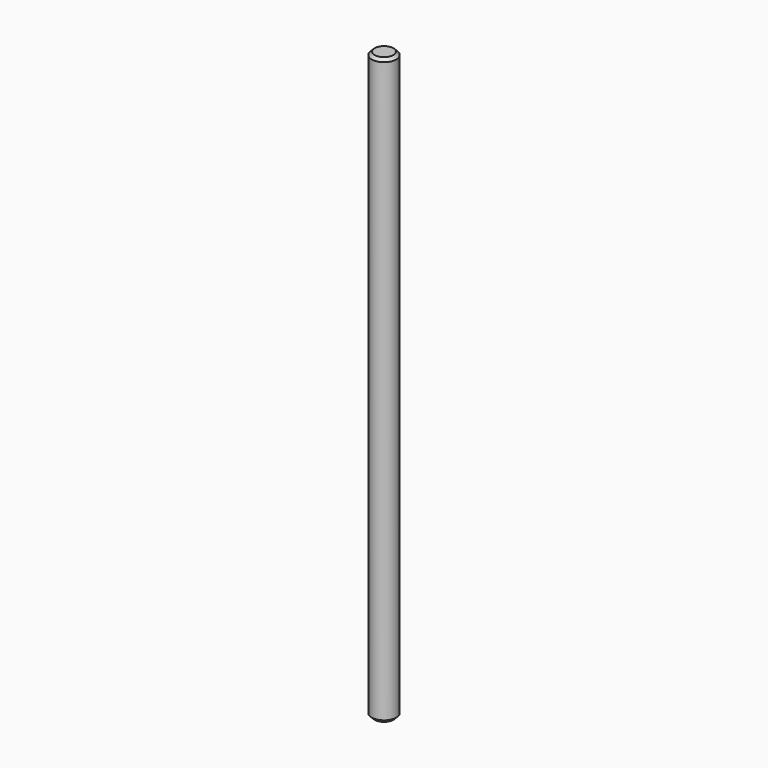
from build123d import *

# Parameters (mm, degrees)
SKETCH_R     = 2.1
PAD_DEPTH    = 100
CHAMFER_SIZE = 0.5


with BuildPart() as part:
    # Sketch → Pad (new body)
    with BuildSketch(Plane.XY):
        Circle(SKETCH_R)
    extrude(amount=PAD_DEPTH)

    # Chamfer
    chamfer_edges = [part.edges().sort_by_distance(p)[0] for p in [
        (-2.1, 0, 100),
        (-2.1, 0, 0),
    ]]
    chamfer(chamfer_edges, length=CHAMFER_SIZE)


solid = part.part
